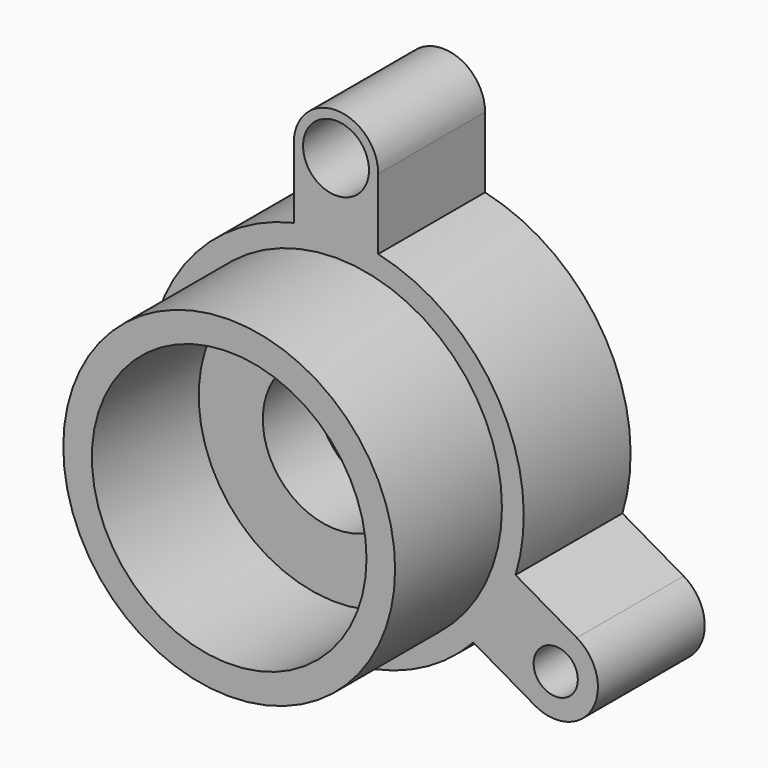
from build123d import *

# Parameters (mm, degrees)
F1_DEPTH  = 25.4
F2_R      = 4.203451
F3_DEPTH  = 25.401
F4_R      = 6.269699
F4_R_2    = 4.203451
F6_DEPTH  = 12.7
F7_R      = 9.142081
F8_DEPTH  = 25.401
F9_R      = 13.925159
F10_DEPTH = 12.7
F11_R     = 31.560362
F11_R_2   = 26.120651
F12_DEPTH = 25.4


with BuildPart() as f1:
    # F0 (on Front) → F1 (new body)
    with BuildSketch(Plane.XZ):
        with BuildLine():
            Line((-8.028061, 48.252545), (-8.028061, 34.79823))
            ThreePointArc((-8.028061, 34.79823), (-30.927737, 17.856137), (-34.150182, -10.44661))
            ThreePointArc((-34.150182, -10.44661), (-30.927737, -17.856137), (-26.122121, -24.35162))
            ThreePointArc((-26.122121, -24.35162), (0, -35.712275), (26.122121, -24.35162))
            ThreePointArc((26.122121, -24.35162), (30.927737, -17.856137), (34.150182, -10.44661))
            ThreePointArc((34.150182, -10.44661), (30.927737, 17.856137), (8.028061, 34.79823))
            Line((8.028061, 34.79823), (8.028061, 48.252545))
            ThreePointArc((8.028061, 48.252545), (0, 56.280606), (-8.028061, 48.252545))
        make_face()
        with BuildLine():
            ThreePointArc((-26.122121, -24.35162), (-30.927737, -17.856137), (-34.150182, -10.44661))
            Line((-34.150182, -10.44661), (-45.801961, -17.173768))
            ThreePointArc((-45.801961, -17.173768), (-48.740435, -28.140303), (-37.773899, -31.078778))
            Line((-37.773899, -31.078778), (-26.122121, -24.35162))
        make_face()
        with BuildLine():
            ThreePointArc((34.150182, -10.44661), (30.927737, -17.856137), (26.122121, -24.35162))
            Line((26.122121, -24.35162), (37.773899, -31.078778))
            ThreePointArc((37.773899, -31.078778), (48.740435, -28.140303), (45.801961, -17.173768))
            Line((45.801961, -17.173768), (34.150182, -10.44661))
        make_face()
    extrude(amount=F1_DEPTH)

    # F2 (on face) → F3 (cut, through all)
    with BuildSketch(Plane.XZ.offset(25.4)):
        with Locations((0, 48.252545)):
            Circle(F2_R)
        with Locations((-41.78793, -24.126273)):
            Circle(F2_R)
        with Locations((41.78793, -24.126273)):
            Circle(F2_R)
    extrude(amount=-F3_DEPTH, mode=Mode.SUBTRACT)

    # F4 (on face) → F6 (cut)
    with BuildSketch(Plane.XZ.offset(25.4)):
        with Locations((0, 48.252545)):
            Circle(F4_R)
        with Locations((0, 48.252545)):
            Circle(F4_R_2, mode=Mode.SUBTRACT)
    extrude(amount=-F6_DEPTH, mode=Mode.SUBTRACT)

    # F7 (on face) → F8 (cut, through all)
    with BuildSketch(Plane.XZ.offset(25.4)):
        Circle(F7_R)
    extrude(amount=-F8_DEPTH, mode=Mode.SUBTRACT)

    # F9 (on face) → F10 (cut)
    with BuildSketch(Plane.XZ.offset(25.4)):
        Circle(F9_R)
    extrude(amount=-F10_DEPTH, mode=Mode.SUBTRACT)

    # F11 (on face) → F12 (join)
    with BuildSketch(Plane.XZ.offset(25.4)):
        Circle(F11_R)
        Circle(F11_R_2, mode=Mode.SUBTRACT)
    extrude(amount=F12_DEPTH)


solid = f1.part
